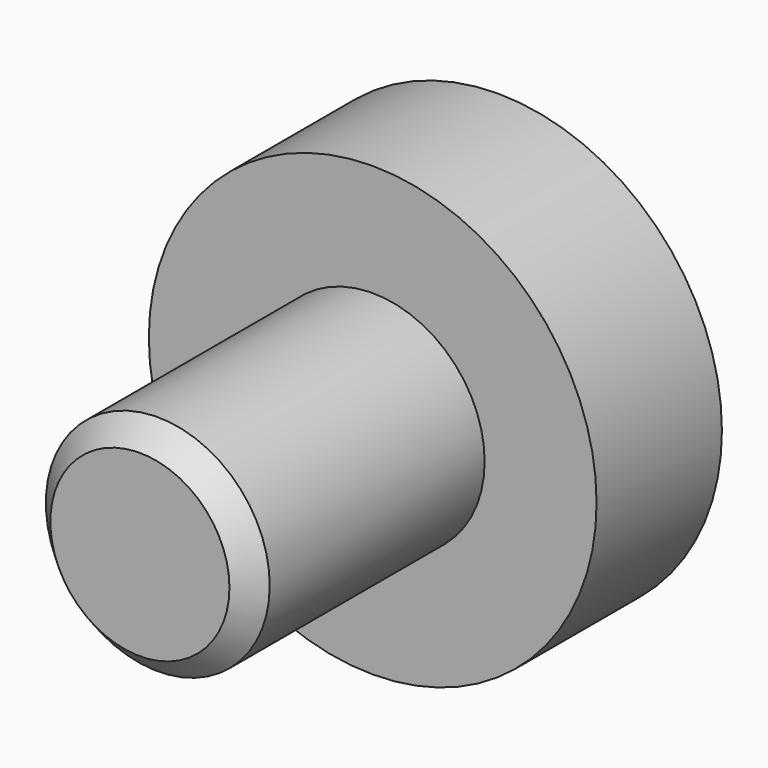
from build123d import *

# Parameters (mm, degrees)
F2_SIZE  = 2.54
F4_DEPTH = 12.7


with BuildPart() as f1:
    # F0 (on Top) → F1 (revolve)
    with BuildSketch(Plane.XY):
        Polygon((0, 50.8), (0, 0), (12.7, 0), (12.7, 33.02), (25.4, 33.02), (25.4, 50.8), align=None)
    revolve(axis=Axis((0, 25.4, 0), (0, 1, 0)))

    # F2
    f2_edges = [f1.edges().sort_by_distance(p)[0] for p in [
        (-12.7, 0, 0),
    ]]
    chamfer(f2_edges, length=F2_SIZE)

    # F3 (on face) → F4 (cut)
    with BuildSketch(Plane(origin=(0, 50.8, 0), x_dir=(-1, 0, 0), z_dir=(0, 1, 0))):
        Polygon((-5.865879, 10.16), (-11.731757, 0), (-5.865879, -10.16), (5.865879, -10.16), (11.731757, 0), (5.865879, 10.16), align=None)
    extrude(amount=-F4_DEPTH, mode=Mode.SUBTRACT)


solid = f1.part
